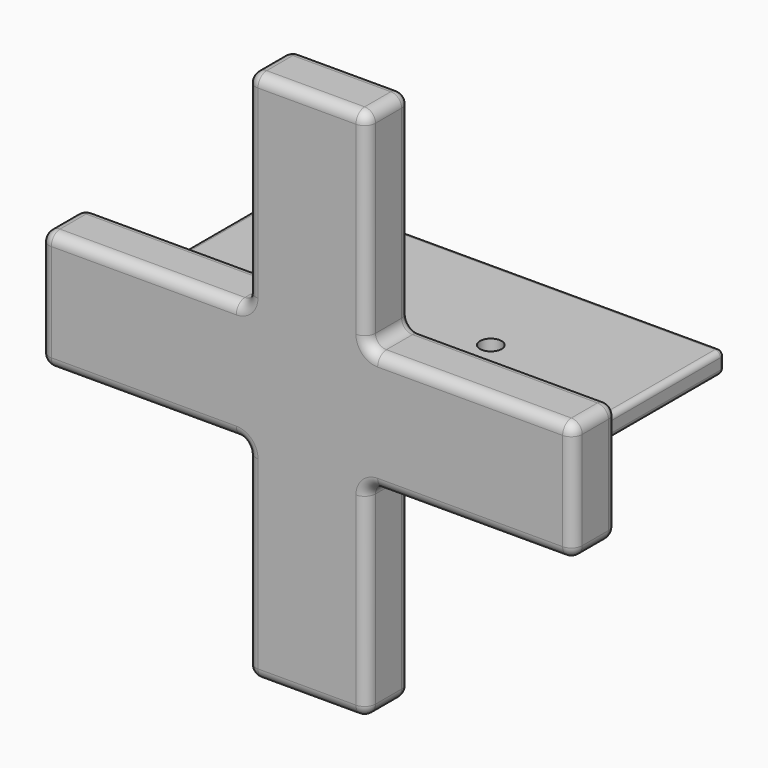
from build123d import *

# Parameters (mm, degrees)
F0_W          = 40
F0_H          = 20
F1_DEPTH      = 2
F2_R          = 0.5
F3_R          = 1
F4_DEPTH      = 25
F6_W          = 39
F6_H          = 1
F6_W_2        = 11
F6_H_2        = 19
F7_DEPTH      = 3
F7_DEPTH_BACK = 2
F8_OFFSET     = 0.1
F9_R          = 1


with BuildPart() as f1:
    # F0 (on Top) → F1 (new body)
    with BuildSketch(Plane.XY):
        Rectangle(F0_W, F0_H)
    extrude(amount=F1_DEPTH)

    # F2
    f2_edges = [f1.edges().sort_by_distance(p)[0] for p in [
        (-20, -10, 1),
        (20, -10, 1),
        (0, -10, 0),
        (0, -10, 2),
        (20, 0, 2),
        (0, 10, 2),
        (-20, 0, 2),
        (20, 0, 0),
        (0, 10, 0),
        (-20, 0, 0),
        (-20, 10, 1),
        (20, 10, 1),
    ]]
    fillet(f2_edges, radius=F2_R)

    # F3 (on face) → F4 (cut)
    with BuildSketch(Plane.XY.offset(2)):
        with Locations((-6.5, 0)):
            Circle(F3_R)
        with Locations((6.5, 0)):
            Circle(F3_R)
    extrude(amount=-F4_DEPTH, mode=Mode.SUBTRACT)


with BuildPart() as f7:
    # F6 (on face) → F7 (new body, two sides)
    with BuildSketch(Plane.XZ.offset(10)) as f7_sk:
        Polygon((24.5, -4.5), (24.5, 6.5), (5.5, 6.5), (5.5, 25.5), (-5.5, 25.5), (-5.5, 6.5), (-24.5, 6.5), (-24.5, -4.5), (-5.5, -4.5), (5.5, -4.5), align=None)
        with Locations((0, 1)):
            Rectangle(F6_W, F6_H, mode=Mode.SUBTRACT)
        with Locations((0, -14)):
            Rectangle(F6_W_2, F6_H_2)
        with Locations((0, 1)):
            Rectangle(F6_W, F6_H)
    extrude(amount=F7_DEPTH)
    extrude(f7_sk.sketch, amount=-F7_DEPTH_BACK)

    # F8: cut F1, made larger all round first
    f8_tool = offset(f1.part, amount=F8_OFFSET, kind=Kind.INTERSECTION, mode=Mode.PRIVATE)
    add(f8_tool, mode=Mode.SUBTRACT)

    # F9
    f9_edges = [f7.edges().sort_by_distance(p)[0] for p in [
        (24.5, -8, 1),
        (15, -8, -4.5),
        (15, -8, 6.5),
        (5.5, -8, -14),
        (5.5, -8, 16),
        (0, -8, -23.5),
        (0, -8, 25.5),
        (-5.5, -8, -14),
        (-5.5, -8, 16),
        (-15, -8, -4.5),
        (-15, -8, 6.5),
        (-24.5, -8, 1),
        (19.924264, -8, 1.924264),
        (0, -8, 2.1),
        (-19.924264, -8, 1.924264),
        (-20.1, -8, 1),
        (-19.924264, -8, 0.075736),
        (0, -8, -0.1),
        (19.924264, -8, 0.075736),
        (20.1, -8, 1),
        (24.5, -13, 1),
        (15, -13, 6.5),
        (5.5, -13, 16),
        (0, -13, 25.5),
        (-5.5, -13, 16),
        (-15, -13, 6.5),
        (-24.5, -13, 1),
        (-15, -13, -4.5),
        (-5.5, -13, -14),
        (0, -13, -23.5),
        (5.5, -13, -14),
        (15, -13, -4.5),
        (5.5, -10.5, -4.5),
        (24.5, -10.5, -4.5),
        (5.5, -10.5, -23.5),
        (-5.5, -10.5, -23.5),
        (24.5, -10.5, 6.5),
        (5.5, -10.5, 6.5),
        (5.5, -10.5, 25.5),
        (-5.5, -10.5, 25.5),
        (-5.5, -10.5, 6.5),
        (-24.5, -10.5, 6.5),
        (-24.5, -10.5, -4.5),
        (-5.5, -10.5, -4.5),
    ]]
    fillet(f9_edges, radius=F9_R)


solid = Compound([f1.part, f7.part])
